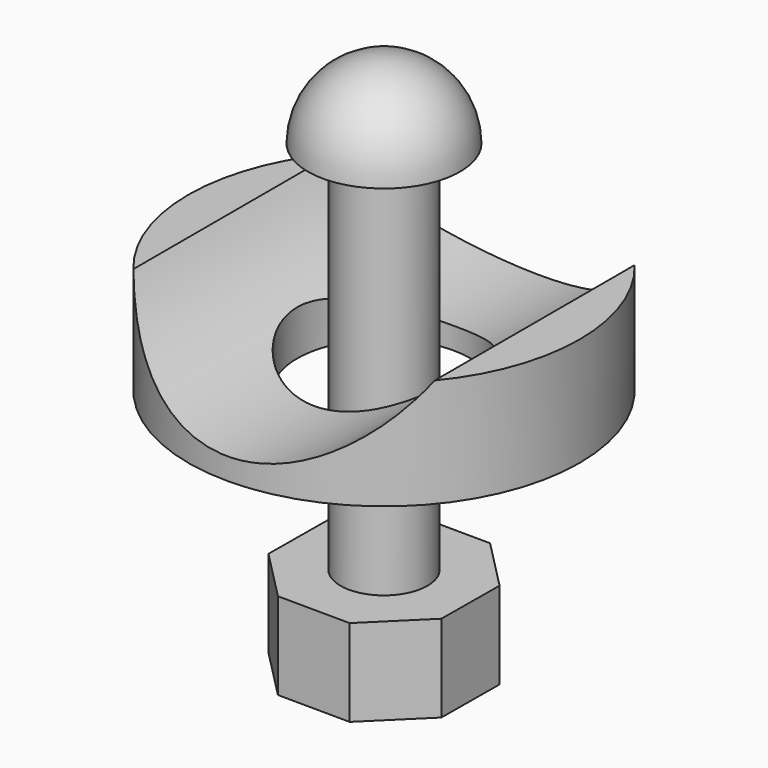
from build123d import *

# Parameters (mm, degrees)
F0_R          = 18
F0_R_2        = 8
F1_DEPTH      = 10
F2_R          = 16
F3_DEPTH      = 25
F3_DEPTH_BACK = 25
F4_R          = 4
F6_DEPTH      = 22.5
F9_DEPTH      = 8


with BuildPart() as f1:
    # F0 (on Top) → F1 (new body)
    with BuildSketch(Plane.XY):
        Circle(F0_R)
        Circle(F0_R_2, mode=Mode.SUBTRACT)
    extrude(amount=F1_DEPTH)

    # F2 (on Front) → F3 (cut, two sides)
    with BuildSketch(Plane.XZ) as f3_sk:
        with Locations((0, 18)):
            Circle(F2_R)
    extrude(amount=-F3_DEPTH, mode=Mode.SUBTRACT)
    extrude(f3_sk.sketch, amount=F3_DEPTH_BACK, mode=Mode.SUBTRACT)


with BuildPart() as f6:
    # F4 (on Top) → F6 (new body, symmetric)
    with BuildSketch(Plane.XY):
        Circle(F4_R)
    extrude(amount=F6_DEPTH, both=True)

    # F5 (on Front) → F7 (revolve)
    with BuildSketch(Plane.XZ):
        with BuildLine():
            Line((-7, 20), (0, 20))
            Line((0, 20), (0, 27))
            ThreePointArc((0, 27), (-4.9497474683, 24.9497474683), (-7, 20))
        make_face()
    revolve(axis=Axis((0, 0, 32.4448695779), (0, 0, 1)))

    # F8 (on face) → F9 (join)
    with BuildSketch(Plane(origin=(0, 0, -22.5), x_dir=(1, 0, 0), z_dir=(0, 0, -1))):
        Polygon((7.9744729822, 3.3746769732), (3.25254695, 8.0250608941), (-3.3746769732, 7.9744729822), (-8.0250608941, 3.25254695), (-7.9744729822, -3.3746769732), (-3.25254695, -8.0250608941), (3.3746769732, -7.9744729822), (8.0250608941, -3.25254695), align=None)
    extrude(amount=-F9_DEPTH)


solid = Compound([f1.part, f6.part])
